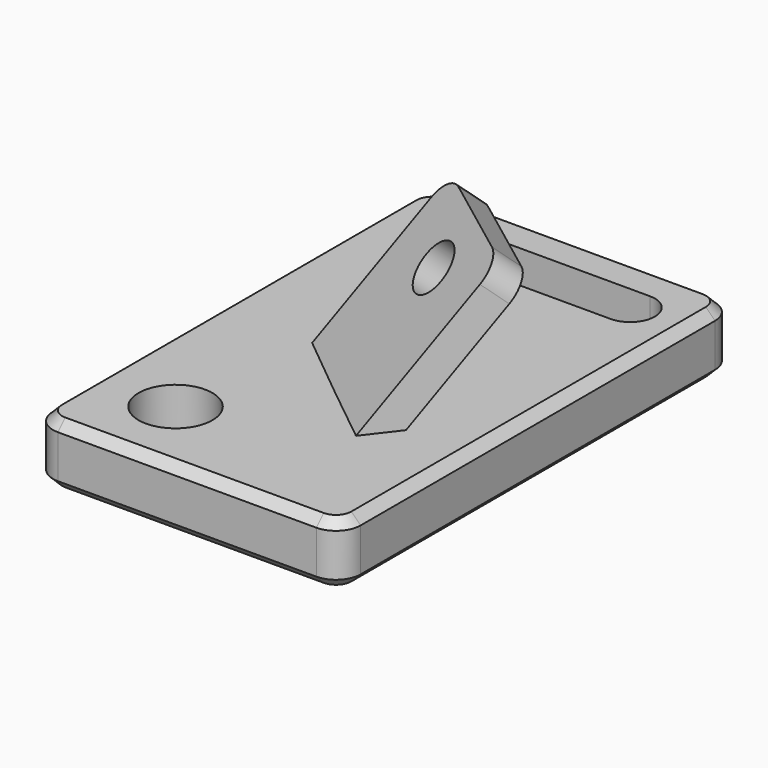
from build123d import *

# Parameters (mm, degrees)
F0_W      = 63.5
F0_H      = 101.6
F1_DEPTH  = 12.7
F5_DEPTH  = 6.35
F6_R      = 5.08
F8_D      = 10.16
F8_DEPTH  = 6.35
F8_TIP    = 3.0523719447
F10_D     = 15.24
F10_DEPTH = 12.7
F10_TIP   = 4.578557917
F12_DEPTH = 25.4
F13_R     = 5.08
F14_SIZE  = 1.905
F15_SIZE  = 1.905


with BuildPart() as f1:
    # F0 (on Top) → F1 (new body)
    with BuildSketch(Plane.XY):
        Rectangle(F0_W, F0_H)
    extrude(amount=F1_DEPTH)

    # F4 (on face) → F5 (join)
    with BuildSketch(Plane(origin=(-7.7671213914, -9.6767273995, 10.4118445509), x_dir=(0.8775350605, -0.3264402976, 0.3512391632), z_dir=(-0.4795124792, -0.5974042778, 0.6427876097))):
        Polygon((11.0284127295, 38.4279564023), (-4.4907014817, 5.8724405244), (24.646670238, -9.5275499275), (40.752428482, 24.2586095854), align=None)
    extrude(amount=-F5_DEPTH)

    # F6
    f6_edges = [f1.edges().sort_by_distance(p)[0] for p in [
        (3.43315, 16.768092, 38.405412),
        (29.517016, -3.313961, 39.199507),
    ]]
    fillet(f6_edges, radius=F6_R)

    # F8
    with Locations(Plane(origin=(-7.7671213914, -9.6767273995, 10.4118445509), x_dir=(0.8775350605, -0.3264402976, 0.3512391632), z_dir=(-0.4795124792, -0.5974042778, 0.6427876097))):
        with Locations((21.2519261986, 21.5889699757)):
            Hole(F8_D / 2, depth=F8_DEPTH)
            with Locations((0, 0, -(F8_DEPTH + F8_TIP / 2))):  # 118° drill point
                Cone(0, F8_D / 2, F8_TIP, mode=Mode.SUBTRACT)

    # F10
    with Locations(Plane.XY.offset(12.7)):
        with Locations((-15.1724275202, -34.8201803863)):
            Hole(F10_D / 2, depth=F10_DEPTH)
            with Locations((0, 0, -(F10_DEPTH + F10_TIP / 2))):  # 118° drill point
                Cone(0, F10_D / 2, F10_TIP, mode=Mode.SUBTRACT)

    # F11 (on face) → F12 (cut)
    with BuildSketch(Plane.XY.offset(12.7)):
        with BuildLine():
            ThreePointArc((-18.7010167369, 43.0184446276), (-23.7885681435, 37.6458278877), (-18.1468351234, 32.8584446276))
            Line((-18.1468351234, 32.8584446276), (20.4611556194, 32.8584446276))
            ThreePointArc((20.4611556194, 32.8584446276), (25.5411556194, 37.9384446276), (20.4611556194, 43.0184446276))
            Line((20.4611556194, 43.0184446276), (-18.7010167369, 43.0184446276))
        make_face()
    extrude(amount=-F12_DEPTH, mode=Mode.SUBTRACT)

    # F13
    f13_edges = [f1.edges().sort_by_distance(p)[0] for p in [
        (-31.75, 50.8, 6.35),
        (-31.75, -50.8, 6.35),
        (31.75, -50.8, 6.35),
        (31.75, 50.8, 6.35),
    ]]
    fillet(f13_edges, radius=F13_R)

    # F14
    f14_edges = [f1.edges().sort_by_distance(p)[0] for p in [
        (-31.75, 0, 12.7),
        (0, 50.8, 12.7),
        (-30.262102, 49.312102, 12.7),
        (30.262102, 49.312102, 12.7),
        (31.75, 0, 12.7),
        (30.262102, -49.312102, 12.7),
        (0, -50.8, 12.7),
        (-30.262102, -49.312102, 12.7),
    ]]
    chamfer(f14_edges, length=F14_SIZE)

    # F15
    f15_edges = [f1.edges().sort_by_distance(p)[0] for p in [
        (-31.75, 0, 0),
        (-30.262102, 49.312102, 0),
        (0, 50.8, 0),
        (30.262102, 49.312102, 0),
        (31.75, 0, 0),
        (30.262102, -49.312102, 0),
        (0, -50.8, 0),
        (-30.262102, -49.312102, 0),
    ]]
    chamfer(f15_edges, length=F15_SIZE)


solid = f1.part
